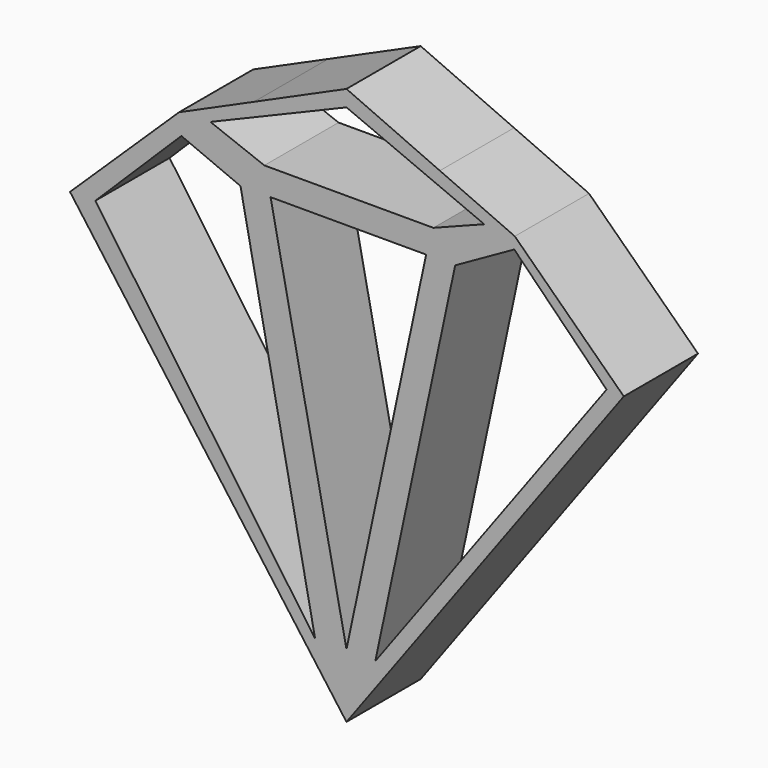
from build123d import *

# Parameters (mm, degrees)
F3_DEPTH = 25.4
F4_DEPTH = 30.48
F7_DEPTH = 50.8


with BuildPart() as f3:
    # F0 (on Front) → F3 (new body)
    with BuildSketch(Plane.XZ):
        Polygon((-75.71096, 26.988449), (0, -76.188624), (-25.316598, 47.161441), (-45.85648, 55.885422), align=None)
        Polygon((26.625417, 47.161441), (0, -76.188624), (75.949796, 26.988449), (46.100167, 55.885422), align=None)
        Polygon((-25.316598, 47.161441), (0, -76.188624), (26.625417, 47.161441), align=None)
        Polygon((-45.85648, 55.885422), (-25.316598, 47.161441), (-15.569561, 60.743305), (-25.316598, 65.086543), align=None)
        Polygon((-15.569561, 60.743305), (16.001999, 60.743305), (25.57465, 65.031505), (0, 76.42746), (-25.316598, 65.086543), align=None)
        Polygon((16.001999, 60.743305), (26.625417, 47.161441), (46.100167, 55.885422), (25.57465, 65.031505), align=None)
        Polygon((-25.316598, 47.161441), (26.625417, 47.161441), (16.001999, 60.743305), (-15.569561, 60.743305), align=None)
    extrude(amount=F3_DEPTH)

    # F1 (on Front) + F2 (on Front) → F4 (cut)
    with BuildSketch(Plane.XZ):
        Polygon((-68.764952, 27.100321), (-8.573943, -58.959331), (-29.023757, 43.573789), (-45.213196, 50.390389), align=None)
        Polygon((71.237154, 27.100321), (45.95891, 52.662592), (29.769467, 43.573789), (7.899523, -58.959331), align=None)
    with BuildSketch(Plane.XZ):
        Polygon((21.816764, 43.573789), (-20.787027, 43.573789), (0, -58.675308), align=None)
        Polygon((0, 71.976312), (-37.260491, 56.354925), (-22.491178, 50.67442), (23.804942, 50.67442), (37.722178, 56.070898), align=None)
    extrude(amount=F4_DEPTH, mode=Mode.SUBTRACT)

    # F5 (on Front) + F6 (on Front) → F7 (cut)
    with BuildSketch(Plane.XZ):
        Polygon((-33.284139, 39.881457), (-44.929173, 44.993915), (-62.822767, 26.248246), (-17.946774, -37.373412), align=None)
    with BuildSketch(Plane.XZ):
        Polygon((16.420284, 39.029382), (-15.390549, 39.029382), (0, -39.361589), align=None)
        Polygon((64.420559, 26.816297), (44.822805, 46.698064), (33.177774, 39.029382), (16.420284, -39.361589), align=None)
    extrude(amount=F7_DEPTH, mode=Mode.SUBTRACT)


solid = f3.part
